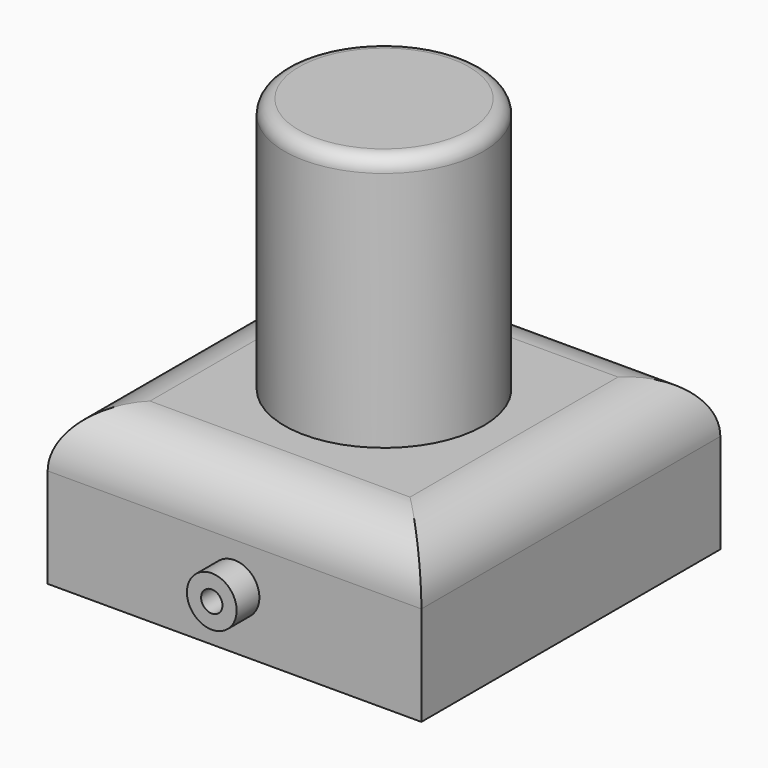
from build123d import *

# Parameters (mm, degrees)
F0_W     = 26.3
F0_H     = 26.3
F1_DEPTH = 11
F2_R     = 4
F3_R     = 7
F4_DEPTH = 18
F5_R     = 1.75
F5_R_2   = 0.75
F6_DEPTH = 2
F7_R     = 1.75
F7_R_2   = 0.75
F8_DEPTH = 2
F9_R     = 1


with BuildPart() as f1:
    # F0 (on Top) → F1 (new body)
    with BuildSketch(Plane.XY):
        with Locations((13.15, -13.15)):
            Rectangle(F0_W, F0_H)
    extrude(amount=F1_DEPTH)

    # F2
    f2_edges = [f1.edges().sort_by_distance(p)[0] for p in [
        (13.15, -26.3, 11),
        (0, -13.15, 11),
        (26.3, -13.15, 11),
        (13.15, 0, 11),
    ]]
    fillet(f2_edges, radius=F2_R)

    # F3 (on face) → F4 (join)
    with BuildSketch(Plane.XY.offset(11)):
        with Locations((13.15, -13.15)):
            Circle(F3_R)
    extrude(amount=F4_DEPTH)

    # F5 (on face) → F6 (join)
    with BuildSketch(Plane.XZ.offset(26.3)):
        with Locations((13.15, 4)):
            Circle(F5_R)
        with Locations((13.15, 4)):
            Circle(F5_R_2, mode=Mode.SUBTRACT)
    extrude(amount=F6_DEPTH)

    # F7 (on face) → F8 (join)
    with BuildSketch(Plane(origin=(0, 0, 0), x_dir=(-1, 0, 0), z_dir=(0, 1, 0))):
        with Locations((-13.15, 4)):
            Circle(F7_R)
        with Locations((-13.15, 4)):
            Circle(F7_R_2, mode=Mode.SUBTRACT)
    extrude(amount=F8_DEPTH)

    # F9
    f9_edges = [f1.edges().sort_by_distance(p)[0] for p in [
        (6.15, -13.15, 29),
    ]]
    fillet(f9_edges, radius=F9_R)


solid = f1.part
